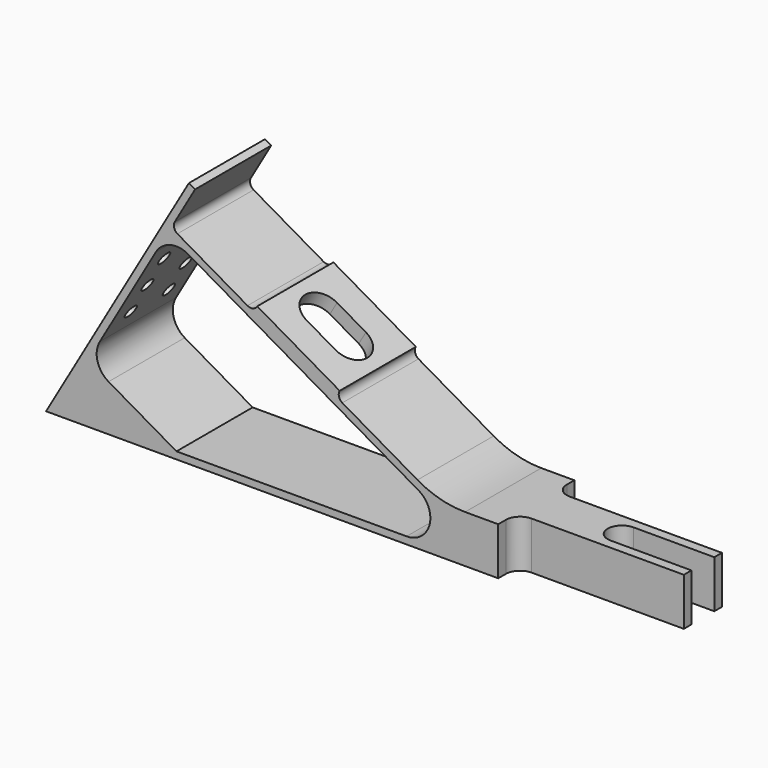
from build123d import *

# Parameters (mm, degrees)
F1_DEPTH  = 10
F3_DEPTH  = 10.001
F4_R      = 5.5
F4_R_2    = 4.25
F5_DEPTH  = 2
F6_DEPTH  = 112.584302492
F7_R      = 1.395
F8_DEPTH  = 1.5
F9_DEPTH  = 25
F11_DEPTH = 3


with BuildPart() as f1:
    # F0 (on Front) → F1 (new body, symmetric)
    with BuildSketch(Plane.XZ):
        with BuildLine():
            Line((30, 51.9615242271), (0, 0))
            Line((0, 0), (130, 0))
            Line((130, 0), (130, 10))
            Line((130, 10), (88.0384757729, 10))
            ThreePointArc((88.0384757729, 10), (82.8620948709, 10.6814834742), (78.0384757729, 12.6794919243))
            Line((78.0384757729, 12.6794919243), (62.2390923627, 21.8012701892))
            ThreePointArc((62.2390923627, 21.8012701892), (61.5402036233, 22.7120797272), (61.6900542571, 23.8503082949))
            Line((61.6900542571, 23.8503082949), (44.3695461814, 33.8503082949))
            ThreePointArc((44.3695461814, 33.8503082949), (43.4587366433, 33.1514195555), (42.3205080757, 33.3012701892))
            Line((42.3205080757, 33.3012701892), (27.5980762114, 41.8012701892))
            ThreePointArc((27.5980762114, 41.8012701892), (26.8991874719, 42.7120797272), (27.0490381057, 43.8503082949))
            Line((27.0490381057, 43.8503082949), (31.2990381057, 51.2115242271))
            Line((31.2990381057, 51.2115242271), (30, 51.9615242271))
        make_face()
        with BuildLine():
            Line((11.2990381057, 16.5705080757), (23.0490381057, 36.9221050646))
            ThreePointArc((23.0490381057, 36.9221050646), (26.0850698991, 39.2517341961), (29.8791651246, 38.7522320835))
            Line((29.8791651246, 38.7522320835), (78.2416697508, 10.8301270189))
            ThreePointArc((78.2416697508, 10.8301270189), (80.5712988822, 5.2059047745), (75.7416697508, 1.5))
            Line((75.7416697508, 1.5), (27.4019237886, 1.5))
            Line((27.4019237886, 1.5), (13.1291651246, 9.7403810568))
            ThreePointArc((13.1291651246, 9.7403810568), (10.7995359932, 12.7764128502), (11.2990381057, 16.5705080757))
        make_face(mode=Mode.SUBTRACT)
    extrude(amount=F1_DEPTH, both=True)

    # F2 (on face) → F3 (cut, through all)
    with BuildSketch(Plane.XY.offset(10)):
        with BuildLine():
            Line((130, -10), (130, -5))
            Line((130, -5), (98, -5))
            ThreePointArc((98, -5), (95.8786796564, -5.8786796564), (95, -8))
            Line((95, -8), (95, -10))
            Line((95, -10), (130, -10))
        make_face()
        with BuildLine():
            Line((130, -3), (130, 3))
            Line((130, 3), (113, 3))
            ThreePointArc((113, 3), (110, 0), (113, -3))
            Line((113, -3), (130, -3))
        make_face()
        with BuildLine():
            Line((98, 5), (130, 5))
            Line((130, 5), (130, 10))
            Line((130, 10), (95, 10))
            Line((95, 10), (95, 8))
            ThreePointArc((95, 8), (95.8786796564, 5.8786796564), (98, 5))
        make_face()
    extrude(amount=-F3_DEPTH, mode=Mode.SUBTRACT)

    # F4 (on face) → F5 (cut)
    with BuildSketch(Plane(origin=(0, 0, 0), x_dir=(0, -1, 0), z_dir=(-0.8660254038, 0, 0.5))):
        with Locations((0, 7.5)):
            Circle(F4_R)
        with Locations((0, 7.5)):
            Circle(F4_R_2, mode=Mode.SUBTRACT)
    extrude(amount=-F5_DEPTH, mode=Mode.SUBTRACT)

    # F6 (cut, through all): a face of the model
    f6_faces = [f1.faces().sort_by_distance(p)[0] for p in [
        (3.75, 0, 6.4951905284),
    ]]
    extrude(f6_faces, amount=-F6_DEPTH, mode=Mode.SUBTRACT)

    # F7 (on face) → F8 (cut, through all)
    with BuildSketch(Plane(origin=(0, 0, 0), x_dir=(0, -1, 0), z_dir=(-0.8660254038, 0, 0.5))):
        with Locations((-5, 32)):
            Circle(F7_R)
        with Locations((-5, 25)):
            Circle(F7_R)
        with Locations((-5, 39)):
            Circle(F7_R)
    extrude(amount=-F8_DEPTH, mode=Mode.SUBTRACT)

    # F7 (on face) → F9 (cut)
    with BuildSketch(Plane(origin=(0, 0, 0), x_dir=(0, -1, 0), z_dir=(-0.8660254038, 0, 0.5))):
        with Locations((-5, 25)):
            Circle(F7_R)
        with Locations((-5, 32)):
            Circle(F7_R)
        with Locations((-5, 39)):
            Circle(F7_R)
        with Locations((5, 39)):
            Circle(F7_R)
        with Locations((5, 32)):
            Circle(F7_R)
        with Locations((5, 25)):
            Circle(F7_R)
    extrude(amount=-F9_DEPTH, mode=Mode.SUBTRACT)

    # F10 (on face) → F11 (cut, through all)
    with BuildSketch(Plane(origin=(25.75, 0, 44.6003082949), x_dir=(0.8660254038, 0, -0.5), z_dir=(0.5, 0, 0.8660254038))):
        with BuildLine():
            ThreePointArc((27.9322247952, 4), (23.9322247952, 0), (27.9322247952, -4))
            Line((27.9322247952, -4), (34.9322247952, -4))
            ThreePointArc((34.9322247952, -4), (38.9322247952, 0), (34.9322247952, 4))
            Line((34.9322247952, 4), (27.9322247952, 4))
        make_face()
    extrude(amount=-F11_DEPTH, mode=Mode.SUBTRACT)


solid = f1.part
